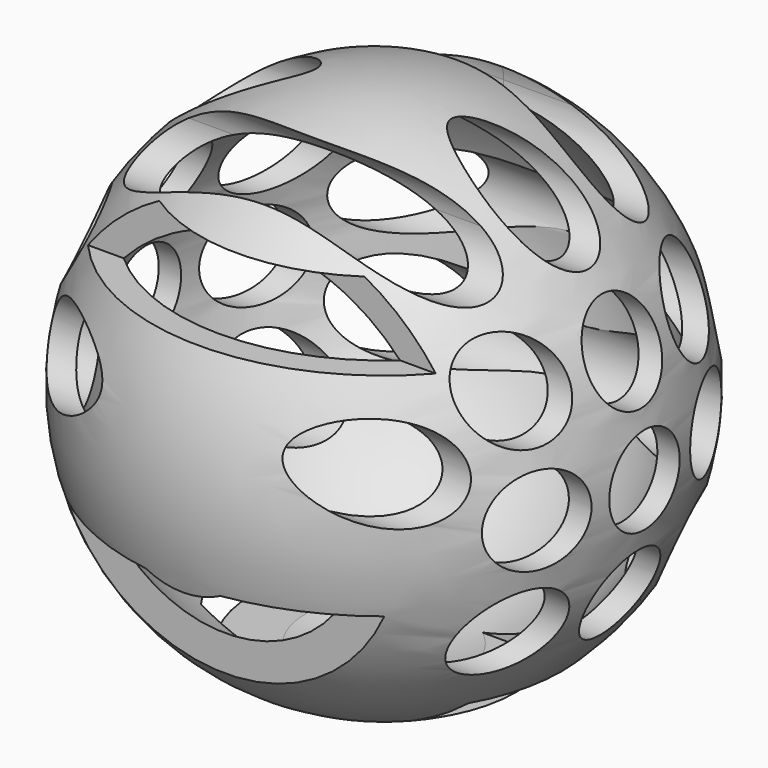
from build123d import *

# Parameters (mm, degrees)
F2_R     = 6.35
F2_W     = 21.648419
F2_H     = 4.810761
F2_W_2   = 7.65348
F2_H_2   = 16.400319
F2_W_3   = 17.931012
F2_H_3   = 8.965507
F3_DEPTH = 50.8


with BuildPart() as f1:
    # F0 (on Front) → F1 (revolve)
    with BuildSketch(Plane.XZ):
        with BuildLine():
            Line((0, -34.925), (0, -38.1))
            ThreePointArc((0, -38.1), (38.1, 0), (0, 38.1))
            Line((0, 38.1), (0, 34.925))
            ThreePointArc((0, 34.925), (34.925, 0), (0, -34.925))
        make_face()
    revolve(axis=Axis((0, 0, 0.806401), (0, 0, -1)))

    # F2 (on Right) → F3 (cut, symmetric)
    with BuildSketch(Plane.YZ):
        Circle(F2_R)
        with Locations((-15.24, 0)):
            Circle(F2_R)
        with Locations((0, 15.24)):
            Circle(F2_R)
        with Locations((0, 30.48)):
            Circle(F2_R)
        with Locations((15.24, 0)):
            Circle(F2_R)
        with Locations((15.24, 14.551581)):
            Circle(F2_R)
        with Locations((-15.24, 15.24)):
            Circle(F2_R)
        with Locations((-0.391734, -15.24)):
            Circle(F2_R)
        with Locations((14.848266, -15.24)):
            Circle(F2_R)
        with Locations((28.236549, -7.959103)):
            Circle(F2_R)
        with Locations((28.63106, 7.27579)):
            Circle(F2_R)
        with Locations((15.24, 29.791581)):
            Circle(F2_R)
        with Locations((-15.24, 30.48)):
            Circle(F2_R)
        with Locations((-28.438227, 7.62)):
            Circle(F2_R)
        with Locations((-15.631734, -15.234965)):
            Circle(F2_R)
        with Locations((-1.790355, -30.600431)):
            Rectangle(F2_W, F2_H)
        with Locations((-32.404282, -18.682868)):
            Rectangle(F2_W_2, F2_H_2)
        with Locations((-30.98292, 22.864602)):
            Rectangle(F2_W_3, F2_H_3)
    extrude(amount=F3_DEPTH, both=True, mode=Mode.SUBTRACT)


solid = f1.part
